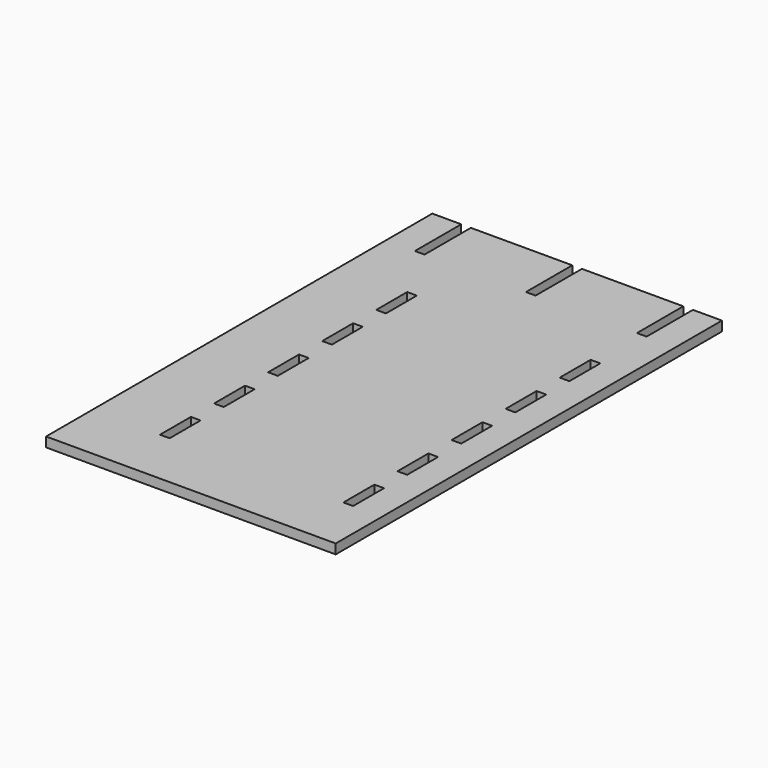
from build123d import *

# Parameters (mm, degrees)
SKETCH_W  = 5
SKETCH_H  = 20
PAD_DEPTH = 5


with BuildPart() as part:
    # Sketch → Pad (new body)
    with BuildSketch(Plane.XY):
        Polygon((74.918265, 123.488459), (74.918265, -126.511541), (-75.081735, -126.511541), (-75.081735, 123.488459), (-60.081735, 123.488459), (-60.081735, 93.488459), (-55.081735, 93.488459), (-55.081735, 123.488459), (-2.581735, 123.488459), (-2.581735, 93.488459), (2.418265, 93.488459), (2.418265, 123.488459), (54.918265, 123.488459), (54.918265, 93.488459), (59.918265, 93.488459), (59.918265, 123.488459), align=None)
        with Locations((-37.581735, -16.511541)):
            Rectangle(SKETCH_W, SKETCH_H, mode=Mode.SUBTRACT)
        with Locations((-37.581735, 18.488459)):
            Rectangle(SKETCH_W, SKETCH_H, mode=Mode.SUBTRACT)
        with Locations((-37.581735, 53.488459)):
            Rectangle(SKETCH_W, SKETCH_H, mode=Mode.SUBTRACT)
        with Locations((-37.581735, -51.511541)):
            Rectangle(SKETCH_W, SKETCH_H, mode=Mode.SUBTRACT)
        with Locations((-37.581735, -86.511541)):
            Rectangle(SKETCH_W, SKETCH_H, mode=Mode.SUBTRACT)
        with Locations((57.418265, -16.511541)):
            Rectangle(SKETCH_W, SKETCH_H, mode=Mode.SUBTRACT)
        with Locations((57.418265, -51.511541)):
            Rectangle(SKETCH_W, SKETCH_H, mode=Mode.SUBTRACT)
        with Locations((57.418265, -86.511541)):
            Rectangle(SKETCH_W, SKETCH_H, mode=Mode.SUBTRACT)
        with Locations((57.418265, 18.488459)):
            Rectangle(SKETCH_W, SKETCH_H, mode=Mode.SUBTRACT)
        with Locations((57.418265, 53.488459)):
            Rectangle(SKETCH_W, SKETCH_H, mode=Mode.SUBTRACT)
    extrude(amount=PAD_DEPTH)


solid = part.part
